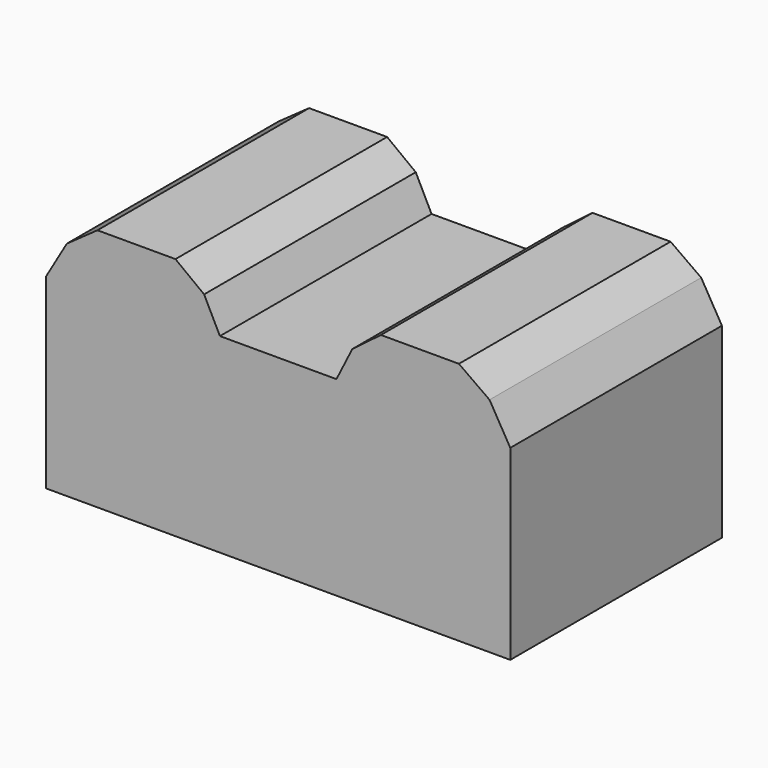
from build123d import *

# Parameters (mm, degrees)
F1_DEPTH = 80.264


with BuildPart() as f1:
    # F0 (on Front) → F1 (new body)
    with BuildSketch(Plane.XZ):
        Polygon((-63.15396, 13.859411), (-63.15396, -42.776883), (0, -42.776883), (7.266827, -42.776883), (14.533654, -42.776883), (77.687614, -42.776883), (77.687614, 13.859411), (71.394693, 24.647275), (62.105142, 31.23986), (38.431771, 31.23986), (29.741548, 24.647275), (24.946941, 15.058062), (14.533654, 15.058062), (7.266827, 15.058062), (0, 15.058062), (-10.413287, 15.058062), (-15.207894, 24.647275), (-23.898117, 31.23986), (-47.571488, 31.23986), (-56.861039, 24.647275), align=None)
    extrude(amount=-F1_DEPTH)


solid = f1.part
